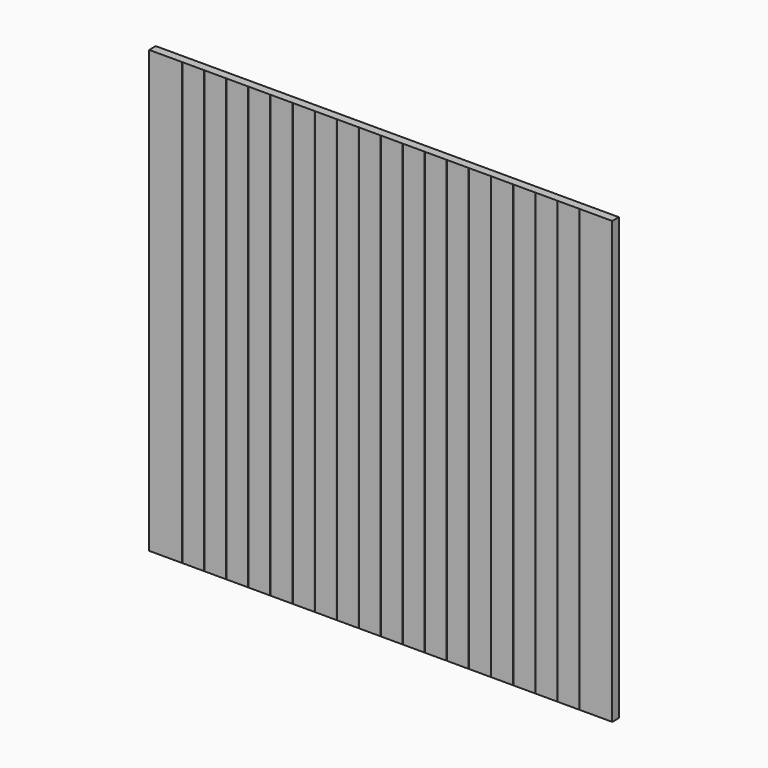
from build123d import *

# Parameters (mm, degrees)
F1_DEPTH = 1016


with BuildPart() as f1:
    # F0 (on Top) → F1 (new body)
    with BuildSketch(Plane.XY):
        with BuildLine():
            Line((509.016, -9.525), (533.4, -9.525))
            Line((533.4, -9.525), (533.4, 9.525))
            Line((533.4, 9.525), (-533.4, 9.525))
            Line((-533.4, 9.525), (-533.4, -9.525))
            Line((-533.4, -9.525), (-509.016, -9.525))
            ThreePointArc((-509.016, -9.525), (-508.29758, -9.22742), (-508, -8.509))
            ThreePointArc((-508, -8.509), (-507.70242, -9.22742), (-506.984, -9.525))
            Line((-506.984, -9.525), (-458.216, -9.525))
            ThreePointArc((-458.216, -9.525), (-457.49758, -9.22742), (-457.2, -8.509))
            ThreePointArc((-457.2, -8.509), (-456.90242, -9.22742), (-456.184, -9.525))
            Line((-456.184, -9.525), (-407.416, -9.525))
            ThreePointArc((-407.416, -9.525), (-406.69758, -9.22742), (-406.4, -8.509))
            ThreePointArc((-406.4, -8.509), (-406.10242, -9.22742), (-405.384, -9.525))
            Line((-405.384, -9.525), (-356.616, -9.525))
            ThreePointArc((-356.616, -9.525), (-355.89758, -9.22742), (-355.6, -8.509))
            ThreePointArc((-355.6, -8.509), (-355.30242, -9.22742), (-354.584, -9.525))
            Line((-354.584, -9.525), (-305.816, -9.525))
            ThreePointArc((-305.816, -9.525), (-305.09758, -9.22742), (-304.8, -8.509))
            ThreePointArc((-304.8, -8.509), (-304.50242, -9.22742), (-303.784, -9.525))
            Line((-303.784, -9.525), (-255.016, -9.525))
            ThreePointArc((-255.016, -9.525), (-254.29758, -9.22742), (-254, -8.509))
            ThreePointArc((-254, -8.509), (-253.70242, -9.22742), (-252.984, -9.525))
            Line((-252.984, -9.525), (-204.216, -9.525))
            ThreePointArc((-204.216, -9.525), (-203.49758, -9.22742), (-203.2, -8.509))
            ThreePointArc((-203.2, -8.509), (-202.90242, -9.22742), (-202.184, -9.525))
            Line((-202.184, -9.525), (-153.416, -9.525))
            ThreePointArc((-153.416, -9.525), (-152.69758, -9.22742), (-152.4, -8.509))
            ThreePointArc((-152.4, -8.509), (-152.10242, -9.22742), (-151.384, -9.525))
            Line((-151.384, -9.525), (-102.616, -9.525))
            ThreePointArc((-102.616, -9.525), (-101.89758, -9.22742), (-101.6, -8.509))
            ThreePointArc((-101.6, -8.509), (-101.30242, -9.22742), (-100.584, -9.525))
            Line((-100.584, -9.525), (-51.816, -9.525))
            ThreePointArc((-51.816, -9.525), (-51.09758, -9.22742), (-50.8, -8.509))
            ThreePointArc((-50.8, -8.509), (-50.50242, -9.22742), (-49.784, -9.525))
            Line((-49.784, -9.525), (-1.016, -9.525))
            ThreePointArc((-1.016, -9.525), (-0.29758, -9.22742), (0, -8.509))
            ThreePointArc((0, -8.509), (0.29758, -9.22742), (1.016, -9.525))
            Line((1.016, -9.525), (49.784, -9.525))
            ThreePointArc((49.784, -9.525), (50.50242, -9.22742), (50.8, -8.509))
            ThreePointArc((50.8, -8.509), (51.09758, -9.22742), (51.816, -9.525))
            Line((51.816, -9.525), (100.584, -9.525))
            ThreePointArc((100.584, -9.525), (101.30242, -9.22742), (101.6, -8.509))
            ThreePointArc((101.6, -8.509), (101.89758, -9.22742), (102.616, -9.525))
            Line((102.616, -9.525), (151.384, -9.525))
            ThreePointArc((151.384, -9.525), (152.10242, -9.22742), (152.4, -8.509))
            ThreePointArc((152.4, -8.509), (152.69758, -9.22742), (153.416, -9.525))
            Line((153.416, -9.525), (202.184, -9.525))
            ThreePointArc((202.184, -9.525), (202.90242, -9.22742), (203.2, -8.509))
            ThreePointArc((203.2, -8.509), (203.49758, -9.22742), (204.216, -9.525))
            Line((204.216, -9.525), (252.984, -9.525))
            ThreePointArc((252.984, -9.525), (253.70242, -9.22742), (254, -8.509))
            ThreePointArc((254, -8.509), (254.29758, -9.22742), (255.016, -9.525))
            Line((255.016, -9.525), (303.784, -9.525))
            ThreePointArc((303.784, -9.525), (304.50242, -9.22742), (304.8, -8.509))
            ThreePointArc((304.8, -8.509), (305.09758, -9.22742), (305.816, -9.525))
            Line((305.816, -9.525), (354.584, -9.525))
            ThreePointArc((354.584, -9.525), (355.30242, -9.22742), (355.6, -8.509))
            ThreePointArc((355.6, -8.509), (355.89758, -9.22742), (356.616, -9.525))
            Line((356.616, -9.525), (405.384, -9.525))
            ThreePointArc((405.384, -9.525), (406.10242, -9.22742), (406.4, -8.509))
            ThreePointArc((406.4, -8.509), (406.69758, -9.22742), (407.416, -9.525))
            Line((407.416, -9.525), (456.184, -9.525))
            ThreePointArc((456.184, -9.525), (456.90242, -9.22742), (457.2, -8.509))
            ThreePointArc((457.2, -8.509), (457.49758, -9.22742), (458.216, -9.525))
            Line((458.216, -9.525), (506.984, -9.525))
            ThreePointArc((506.984, -9.525), (507.70242, -9.22742), (508, -8.509))
            ThreePointArc((508, -8.509), (508.29758, -9.22742), (509.016, -9.525))
        make_face()
        with BuildLine():
            Line((506.984, -9.525), (509.016, -9.525))
            ThreePointArc((509.016, -9.525), (508.29758, -9.22742), (508, -8.509))
            ThreePointArc((508, -8.509), (507.70242, -9.22742), (506.984, -9.525))
        make_face()
        with BuildLine():
            ThreePointArc((-508, -8.509), (-508.29758, -9.22742), (-509.016, -9.525))
            Line((-509.016, -9.525), (-506.984, -9.525))
            ThreePointArc((-506.984, -9.525), (-507.70242, -9.22742), (-508, -8.509))
        make_face()
    extrude(amount=F1_DEPTH)


solid = f1.part
